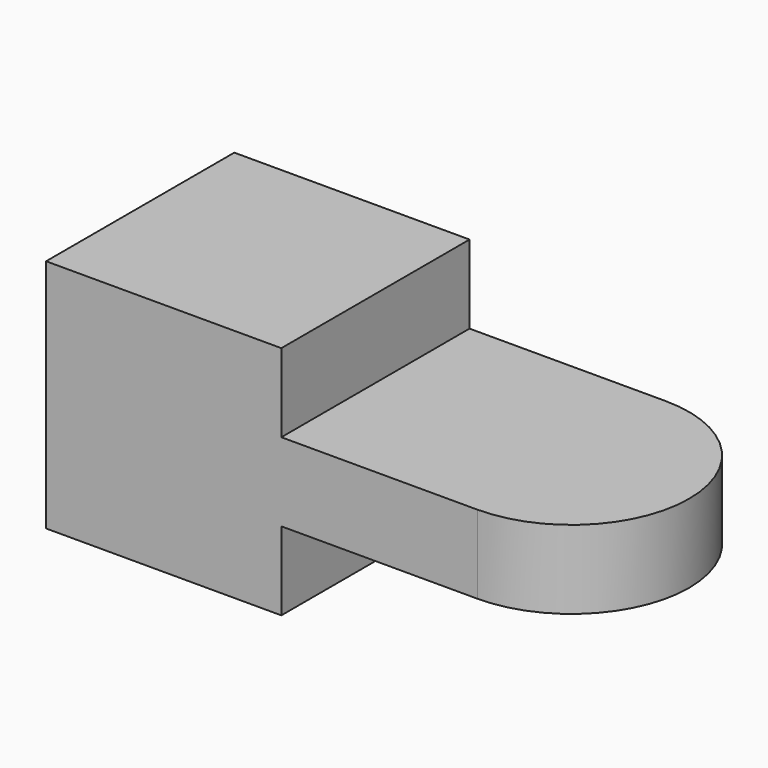
from build123d import *

# Parameters (mm, degrees)
F1_DEPTH = 38.1
F3_DEPTH = 12.7


with BuildPart() as f1:
    # F0 (on Front) → F1 (new body)
    with BuildSketch(Plane.XZ):
        Polygon((38.1, 0), (0, 0), (0, -38.1), (38.1, -38.1), (38.1, -25.4), (69.85, -25.4), (69.85, -12.7), (38.1, -12.7), align=None)
    extrude(amount=-F1_DEPTH)

    # F2 (on face) → F3 (join, through all)
    with BuildSketch(Plane.XY.offset(-12.7)):
        with BuildLine():
            Line((69.85, 38.1), (69.85, 0))
            ThreePointArc((69.85, 0), (88.9, 19.05), (69.85, 38.1))
        make_face()
    extrude(amount=-F3_DEPTH)


solid = f1.part
